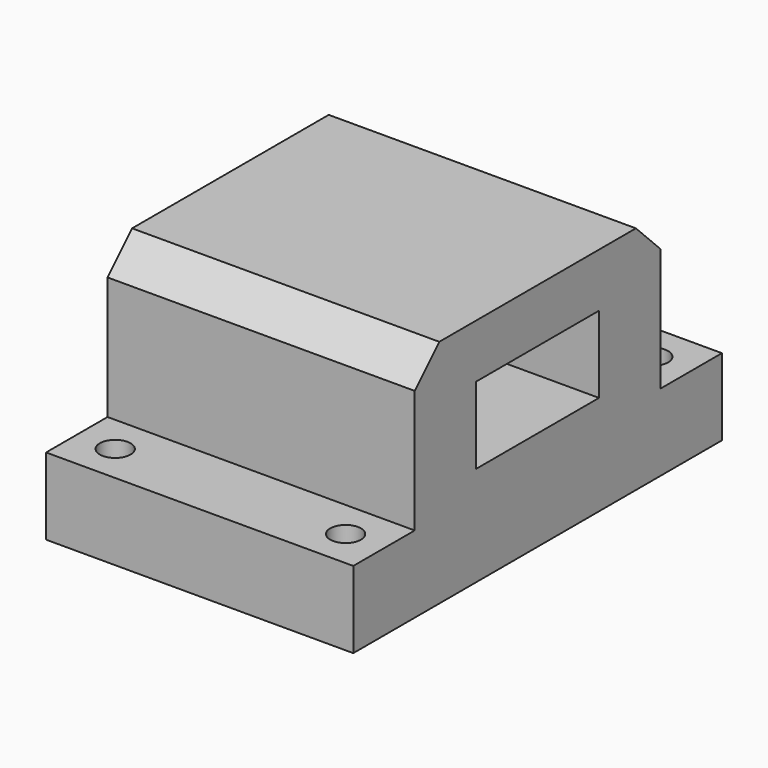
from build123d import *

# Parameters (mm, degrees)
F0_W     = 50.8
F0_H     = 50.8
F1_DEPTH = 38.1
F0_H_2   = 12.7
F0_R     = 2.54
F2_DEPTH = 12.7
F3_SIZE  = 5.08
F4_W     = 25.4
F4_H     = 12.7
F5_DEPTH = 38.1


with BuildPart() as f1:
    # F0 (on Top) → F1 (new body)
    with BuildSketch(Plane.XY):
        with Locations((-76.2, 12.7)):
            Rectangle(F0_W, F0_H)
    extrude(amount=F1_DEPTH)

    # F0 (on Top) → F2 (join)
    with BuildSketch(Plane.XY):
        with Locations((-76.2, -19.05)):
            Rectangle(F0_W, F0_H_2)
        with Locations((-95.25, -19.05)):
            Circle(F0_R, mode=Mode.SUBTRACT)
        with Locations((-57.15, -19.05)):
            Circle(F0_R, mode=Mode.SUBTRACT)
        with Locations((-76.2, 44.45)):
            Rectangle(F0_W, F0_H_2)
        with Locations((-95.25, 44.45)):
            Circle(F0_R, mode=Mode.SUBTRACT)
        with Locations((-57.15, 44.45)):
            Circle(F0_R, mode=Mode.SUBTRACT)
    extrude(amount=F2_DEPTH)

    # F3
    f3_edges = [f1.edges().sort_by_distance(p)[0] for p in [
        (-76.2, 38.1, 38.1),
        (-76.2, -12.7, 38.1),
    ]]
    chamfer(f3_edges, length=F3_SIZE)

    # F4 (on face) → F5 (cut)
    with BuildSketch(Plane.YZ.offset(-50.8)):
        with Locations((12.7, 22.86)):
            Rectangle(F4_W, F4_H)
    extrude(amount=-F5_DEPTH, mode=Mode.SUBTRACT)


solid = f1.part
